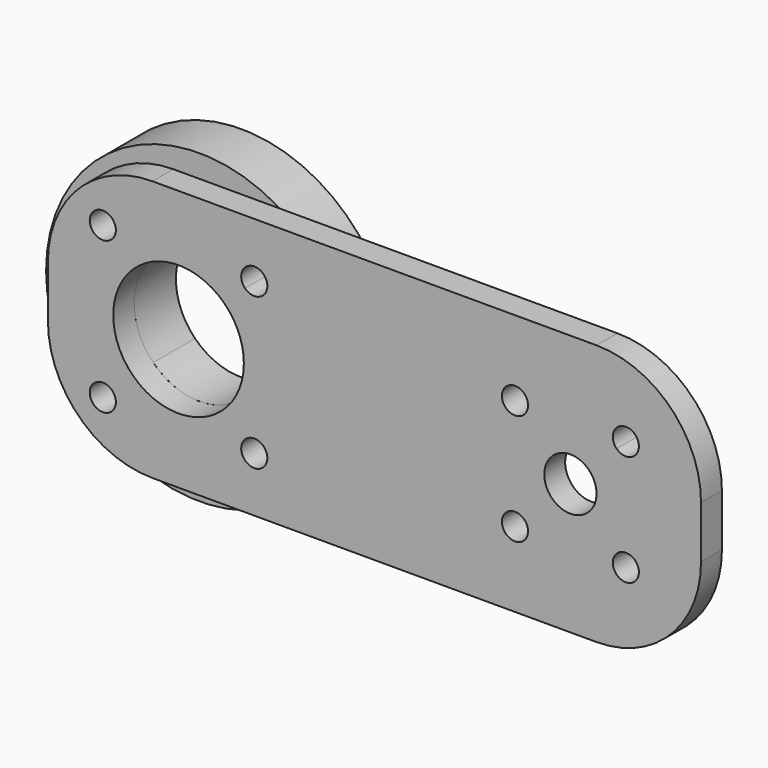
from build123d import *

# Parameters (mm, degrees)
F0_R     = 2.5
F1_DEPTH = 5
F2_R     = 29.3505
F3_DEPTH = 10


with BuildPart() as f1:
    # F0 (on Front) → F1 (new body)
    with BuildSketch(Plane.XZ):
        with BuildLine():
            ThreePointArc((62.5, 5), (56.6421356237, 19.1421356237), (42.5, 25))
            Line((42.5, 25), (-42.5, 25))
            ThreePointArc((-42.5, 25), (-56.6421356237, 19.1421356237), (-62.5, 5))
            Line((-62.5, 5), (-62.5, -5))
            ThreePointArc((-62.5, -5), (-56.6421356237, -19.1421356237), (-42.5, -25))
            Line((-42.5, -25), (42.5, -25))
            ThreePointArc((42.5, -25), (56.6421356237, -19.1421356237), (62.5, -5))
            Line((62.5, -5), (62.5, 5))
        make_face()
        with Locations((-51.9956890143, -14.4956890143)):
            Circle(F0_R, mode=Mode.SUBTRACT)
        with Locations((-23.0043109857, -14.4956890143)):
            Circle(F0_R, mode=Mode.SUBTRACT)
        with BuildLine():
            ThreePointArc((-25, 0), (-42.2835429046, -11.5484941564), (-46.3388347648, 8.8388347648))
            ThreePointArc((-46.3388347648, 8.8388347648), (-37.5, 12.5), (-28.6611652352, 8.8388347648))
            ThreePointArc((-28.6611652352, 8.8388347648), (-25.9515058436, 4.7835429046), (-25, 0))
        make_face(mode=Mode.SUBTRACT)
        with Locations((26.8933982822, -10.6066017178)):
            Circle(F0_R, mode=Mode.SUBTRACT)
        with Locations((48.1066017178, -10.6066017178)):
            Circle(F0_R, mode=Mode.SUBTRACT)
        with BuildLine():
            ThreePointArc((42.5, 0), (35.5865828382, -4.6193976626), (33.9644660941, 3.5355339059))
            ThreePointArc((33.9644660941, 3.5355339059), (37.5, 5), (41.0355339059, 3.5355339059))
            ThreePointArc((41.0355339059, 3.5355339059), (42.1193976626, 1.9134171618), (42.5, 0))
        make_face(mode=Mode.SUBTRACT)
        with BuildLine():
            ThreePointArc((-50.2279220614, 12.7279220614), (-54.3053878456, 15.4523975952), (-49.4956890143, 14.4956890143))
            ThreePointArc((-49.4956890143, 14.4956890143), (-49.685990183, 13.5389804334), (-50.2279220614, 12.7279220614))
        make_face(mode=Mode.SUBTRACT)
        with BuildLine():
            ThreePointArc((-20.5043109857, 14.4956890143), (-22.0476024048, 12.185990183), (-24.7720779386, 12.7279220614))
            ThreePointArc((-24.7720779386, 12.7279220614), (-23.9610195666, 16.8053878456), (-20.5043109857, 14.4956890143))
        make_face(mode=Mode.SUBTRACT)
        with BuildLine():
            ThreePointArc((28.6611652352, 8.8388347648), (24.5836994509, 11.5633102987), (29.3933982822, 10.6066017178))
            ThreePointArc((29.3933982822, 10.6066017178), (29.2030971135, 9.6498931369), (28.6611652352, 8.8388347648))
        make_face(mode=Mode.SUBTRACT)
        with BuildLine():
            ThreePointArc((50.6066017178, 10.6066017178), (49.0633102987, 8.2969028865), (46.3388347648, 8.8388347648))
            ThreePointArc((46.3388347648, 8.8388347648), (47.1498931369, 12.9163005491), (50.6066017178, 10.6066017178))
        make_face(mode=Mode.SUBTRACT)
    extrude(amount=F1_DEPTH)


with BuildPart() as f3:
    # F2 (on Front) → F3 (new body)
    with BuildSketch(Plane.XZ):
        with Locations((-37.5, 0)):
            Circle(F2_R)
        with BuildLine():
            ThreePointArc((-49.4956890143, -14.4956890143), (-54.3053878456, -15.4523975952), (-50.2279220614, -12.7279220614))
            ThreePointArc((-50.2279220614, -12.7279220614), (-49.685990183, -13.5389804334), (-49.4956890143, -14.4956890143))
        make_face(mode=Mode.SUBTRACT)
        with BuildLine():
            ThreePointArc((-20.5043109857, -14.4956890143), (-23.9610195666, -16.8053878456), (-24.7720779386, -12.7279220614))
            ThreePointArc((-24.7720779386, -12.7279220614), (-22.0476024048, -12.185990183), (-20.5043109857, -14.4956890143))
        make_face(mode=Mode.SUBTRACT)
        with BuildLine():
            ThreePointArc((-50.2279220614, 12.7279220614), (-54.3053878456, 15.4523975952), (-49.4956890143, 14.4956890143))
            ThreePointArc((-49.4956890143, 14.4956890143), (-49.685990183, 13.5389804334), (-50.2279220614, 12.7279220614))
        make_face(mode=Mode.SUBTRACT)
        with BuildLine():
            ThreePointArc((-46.3388347648, -8.8388347648), (-50, 0), (-46.3388347648, 8.8388347648))
            ThreePointArc((-46.3388347648, 8.8388347648), (-37.5, 12.5), (-28.6611652352, 8.8388347648))
            ThreePointArc((-28.6611652352, 8.8388347648), (-25.9515058436, 4.7835429046), (-25, 0))
            ThreePointArc((-25, 0), (-25.9515058436, -4.7835429046), (-28.6611652352, -8.8388347648))
            ThreePointArc((-28.6611652352, -8.8388347648), (-37.5, -12.5), (-46.3388347648, -8.8388347648))
        make_face(mode=Mode.SUBTRACT)
        with BuildLine():
            ThreePointArc((-20.5043109857, 14.4956890143), (-22.0476024048, 12.185990183), (-24.7720779386, 12.7279220614))
            ThreePointArc((-24.7720779386, 12.7279220614), (-23.9610195666, 16.8053878456), (-20.5043109857, 14.4956890143))
        make_face(mode=Mode.SUBTRACT)
    extrude(amount=-F3_DEPTH)


solid = Compound([f1.part, f3.part])
